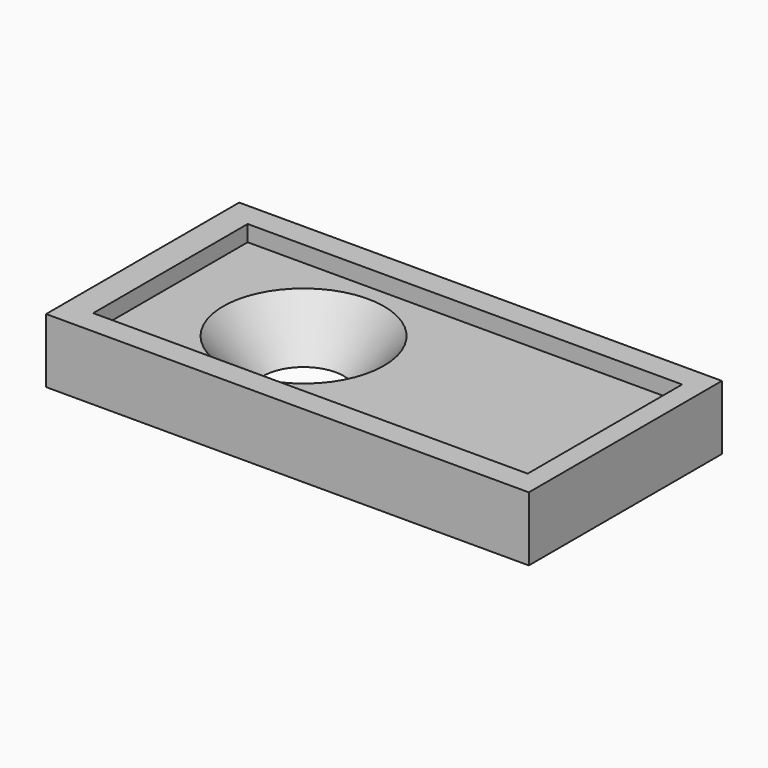
from build123d import *

# Parameters (mm, degrees)
RECTANGLE001_W   = 27
RECTANGLE001_H   = 12
EXTRUDE002_DEPTH = 1
CIRCLE_R         = 2.5
EXTRUDE001_DEPTH = 10
RECTANGLE_W      = 30
RECTANGLE_H      = 15
EXTRUDE_DEPTH    = 4


with BuildPart() as extrude002:
    # Rectangle001 → Extrude002 (new body)
    with BuildSketch(Plane(origin=(-1.345388, -1.581388, 4), x_dir=(1, 0, 0), z_dir=(0, 0, 1))):
        with Locations((13.5, 6)):
            Rectangle(RECTANGLE001_W, RECTANGLE001_H)
    extrude(amount=-EXTRUDE002_DEPTH)


with BuildPart() as cone:
    # Cone → Cone (revolve)
    with BuildSketch(Plane(origin=(6.926492, 4.418612, 0), x_dir=(1, 0, 0), z_dir=(0, -1, 0))):
        Polygon((0, 0), (2.5, 0), (5, 3), (0, 3), align=None)
    revolve(axis=Axis((6.926492, 4.418612, 0), (0, 0, 1)))


with BuildPart() as extrude001:
    # Circle → Extrude001 (new body)
    with BuildSketch(Plane(origin=(6.926492, 4.418612, 0), x_dir=(1, 0, 0), z_dir=(0, 0, 1))):
        Circle(CIRCLE_R)
    extrude(amount=EXTRUDE001_DEPTH)


with BuildPart() as cut002:
    # Rectangle → Extrude (new body)
    with BuildSketch(Plane(origin=(-3.073508, -3.081388, 0), x_dir=(1, 0, 0), z_dir=(0, 0, 1))):
        with Locations((15, 7.5)):
            Rectangle(RECTANGLE_W, RECTANGLE_H)
    extrude(amount=EXTRUDE_DEPTH)

    # Cut: cut Extrude001
    add(extrude001.part, mode=Mode.SUBTRACT)

    # Cut001: cut Cone
    add(cone.part, mode=Mode.SUBTRACT)

    # Cut002: cut Extrude002
    add(extrude002.part, mode=Mode.SUBTRACT)


solid = cut002.part
